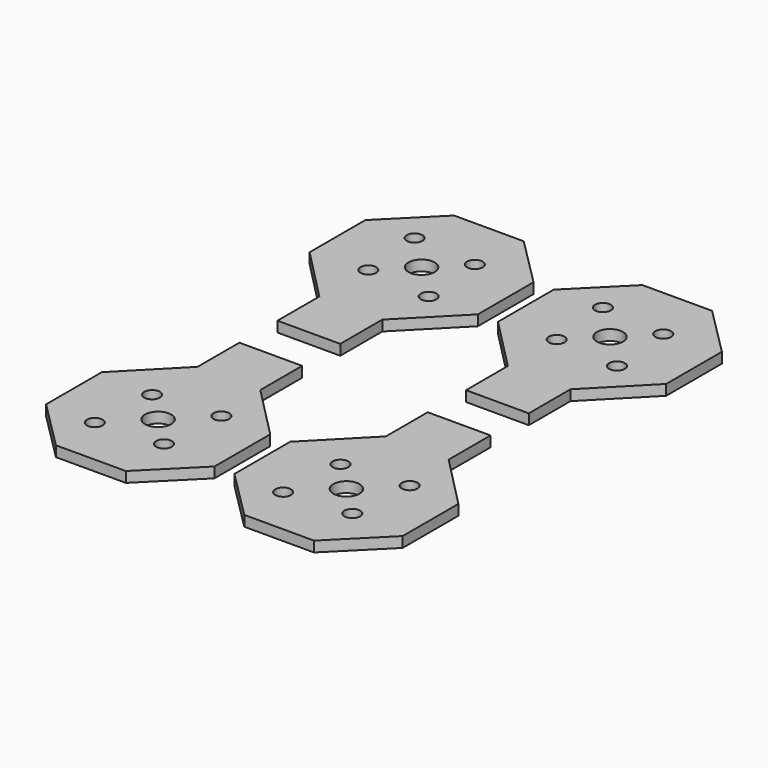
from build123d import *

# Parameters (mm, degrees)
F0_R     = 1.5
F0_R_2   = 2.5
F1_DEPTH = 2


with BuildPart() as f1:
    # F0 (on Top) → F1 (new body)
    with BuildSketch(Plane.XY):
        Polygon((16.072823, 6.657581), (6, 16.927177), (6, 26.927177), (-6, 26.927177), (-6, 16.927177), (-16.072823, 6.657581), (-16.072823, -6.657581), (-6.657581, -16.072823), (6.657581, -16.072823), (16.072823, -6.657581), align=None)
        with Locations((-6.717514, -6.717514)):
            Circle(F0_R, mode=Mode.SUBTRACT)
        with Locations((-5.656454, 5.657254)):
            Circle(F0_R, mode=Mode.SUBTRACT)
        with Locations((5.656454, -5.657254)):
            Circle(F0_R, mode=Mode.SUBTRACT)
        Circle(F0_R_2, mode=Mode.SUBTRACT)
        with Locations((6.717514, 6.717514)):
            Circle(F0_R, mode=Mode.SUBTRACT)
        Polygon((-19.898487, 6.678025), (-29.992112, 16.927177), (-29.992112, 26.927177), (-41.992112, 26.927177), (-41.992112, 16.927177), (-52.064935, 6.657581), (-52.064935, -6.657581), (-42.649693, -16.072823), (-29.313729, -16.052379), (-19.898487, -6.637137), align=None)
        with Locations((-42.709626, -6.717514)):
            Circle(F0_R, mode=Mode.SUBTRACT)
        with Locations((-35.992112, 0)):
            Circle(F0_R_2, mode=Mode.SUBTRACT)
        with Locations((-41.648566, 5.657254)):
            Circle(F0_R, mode=Mode.SUBTRACT)
        with Locations((-30.335658, -5.657254)):
            Circle(F0_R, mode=Mode.SUBTRACT)
        with Locations((-29.274598, 6.717514)):
            Circle(F0_R, mode=Mode.SUBTRACT)
        Polygon((-41.992112, 46.02602), (-41.992112, 36.02602), (-29.992112, 36.02602), (-29.992112, 46.067586), (-19.919289, 56.295615), (-19.919289, 69.610778), (-29.334531, 79.02602), (-42.649693, 79.02602), (-52.064935, 69.610778), (-52.064935, 56.295615), align=None)
        with Locations((-41.648566, 57.295942)):
            Circle(F0_R, mode=Mode.SUBTRACT)
        with Locations((-35.992112, 62.953196)):
            Circle(F0_R_2, mode=Mode.SUBTRACT)
        with Locations((-42.709626, 69.670711)):
            Circle(F0_R, mode=Mode.SUBTRACT)
        with Locations((-29.274598, 56.235682)):
            Circle(F0_R, mode=Mode.SUBTRACT)
        with Locations((-30.335658, 68.610451)):
            Circle(F0_R, mode=Mode.SUBTRACT)
        Polygon((6, 36.067586), (6, 46.02602), (16.072823, 56.295615), (16.072823, 69.610778), (6.657581, 79.02602), (-6.657581, 79.02602), (-16.072823, 69.610778), (-16.072823, 56.295615), (-6, 46.067586), (-6, 36.067586), align=None)
        with Locations((-5.656454, 57.295942)):
            Circle(F0_R, mode=Mode.SUBTRACT)
        with Locations((-6.717514, 69.670711)):
            Circle(F0_R, mode=Mode.SUBTRACT)
        with Locations((6.717514, 56.235682)):
            Circle(F0_R, mode=Mode.SUBTRACT)
        with Locations((0, 62.953196)):
            Circle(F0_R_2, mode=Mode.SUBTRACT)
        with Locations((5.656454, 68.610451)):
            Circle(F0_R, mode=Mode.SUBTRACT)
    extrude(amount=F1_DEPTH)


solid = f1.part
